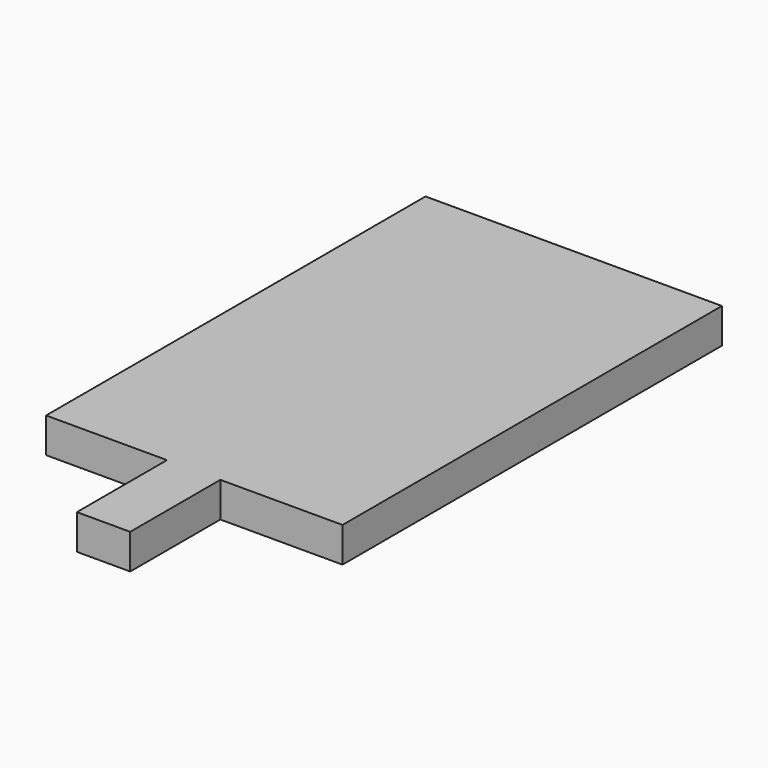
from build123d import *

# Parameters (mm, degrees)
F0_W     = 101.6
F0_H     = 7.493
F1_DEPTH = 63.5
F3_W     = 11.43
F3_H     = 7.493
F4_DEPTH = 24.13


with BuildPart() as f1:
    # F0 (on Right) → F1 (new body)
    with BuildSketch(Plane.YZ):
        with Locations((-50.8, 3.7465)):
            Rectangle(F0_W, F0_H)
    extrude(amount=F1_DEPTH)

    # F3 (on face) → F4 (join)
    with BuildSketch(Plane.XZ.offset(101.6)):
        with Locations((31.613354, 3.7465)):
            Rectangle(F3_W, F3_H)
    extrude(amount=F4_DEPTH)


solid = f1.part
